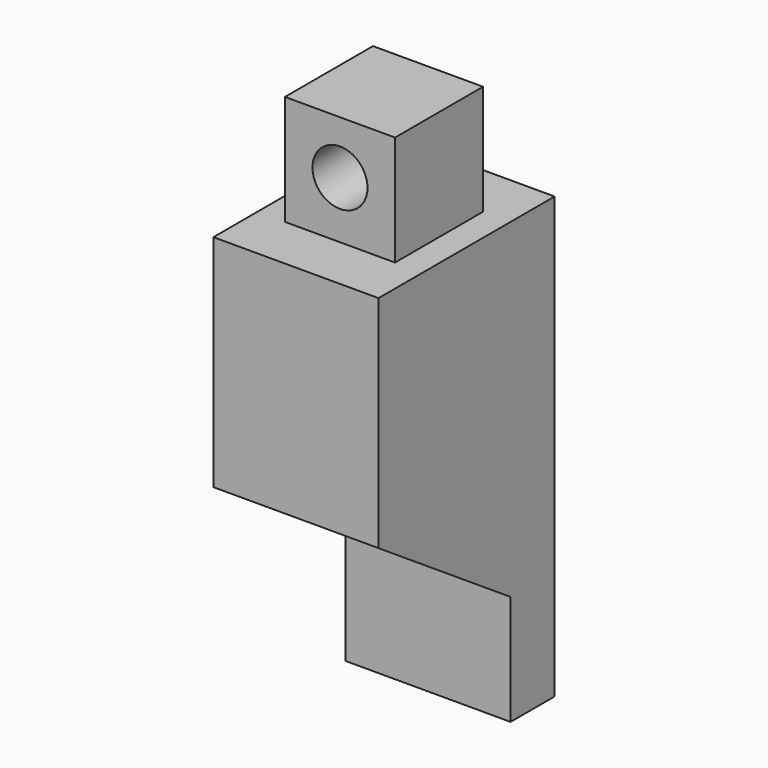
from build123d import *

# Parameters (mm, degrees)
F0_W     = 38.1
F0_H     = 76.2
F1_DEPTH = 25.4
F2_SIZE2 = 38.1
F2_SIZE  = 25.4
F3_W     = 25.4
F3_H     = 25.4
F4_DEPTH = 25.4
F5_R     = 6.35
F6_DEPTH = 25.4
F7_W     = 38.1
F7_H     = 12.7
F8_DEPTH = 25.4


with BuildPart() as f1:
    # F0 (on Front) → F1 (new body, symmetric)
    with BuildSketch(Plane.XZ):
        Rectangle(F0_W, F0_H)
    extrude(amount=F1_DEPTH, both=True)

    # F2
    f2_edges = [f1.edges().sort_by_distance(p)[0] for p in [
        (0, -25.4, -38.1),
    ]]
    chamfer(f2_edges, length=F2_SIZE, length2=F2_SIZE2)

    # F3 (on face) → F4 (join)
    with BuildSketch(Plane.XY.offset(38.1)):
        Rectangle(F3_W, F3_H)
    extrude(amount=F4_DEPTH)

    # F5 (on face) → F6 (cut)
    with BuildSketch(Plane.XZ.offset(12.7)):
        with Locations((0, 51.219936)):
            Circle(F5_R)
    extrude(amount=-F6_DEPTH, mode=Mode.SUBTRACT)

    # F7 (on face) → F8 (join)
    with BuildSketch(Plane(origin=(0, 0, -38.1), x_dir=(1, 0, 0), z_dir=(0, 0, -1))):
        with Locations((0, -19.05)):
            Rectangle(F7_W, F7_H)
    extrude(amount=F8_DEPTH)


solid = f1.part
